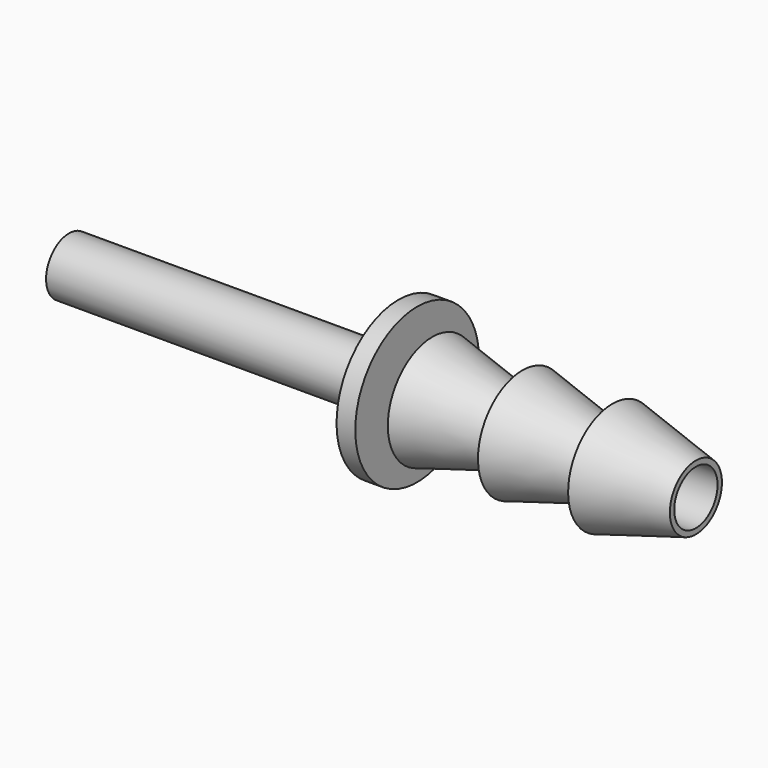
from build123d import *

# Parameters (mm, degrees)
F2_R     = 1.4990506736
F3_DEPTH = 48.2092


with BuildPart() as f1:
    # F0 (on Front) → F1 (revolve)
    with BuildSketch(Plane.XZ):
        Polygon((6.8602792752, 1.8190295668), (11.4510266601, 1.8190295668), (6.8602792752, 3.0710518752), align=None)
        Polygon((-18.2348843664, 1.5875), (-18.2348843664, 0), (16.4666048384, 0), (16.4666048384, 1.8016344952), (11.8439664964, 3.0623543394), (11.8439664964, 1.8190295668), (11.4510266601, 1.8190295668), (6.8602792752, 1.8190295668), (6.499230396, 1.8190295668), (1.876592054, 1.8190295668), (1.0361127788, 1.8190295668), (1.0361127788, 4.2804344557), (0, 4.2804344557), (0, 1.5875), align=None)
        Polygon((1.876592054, 3.079749411), (1.876592054, 1.8190295668), (6.499230396, 1.8190295668), align=None)
    revolve(axis=Axis((-0.884139764, 0, 0), (1, 0, 0)))

    # F2 (on face) → F3 (cut)
    with BuildSketch(Plane.YZ.offset(16.4666048384)):
        Circle(F2_R)
    extrude(amount=-F3_DEPTH, mode=Mode.SUBTRACT)


solid = f1.part
